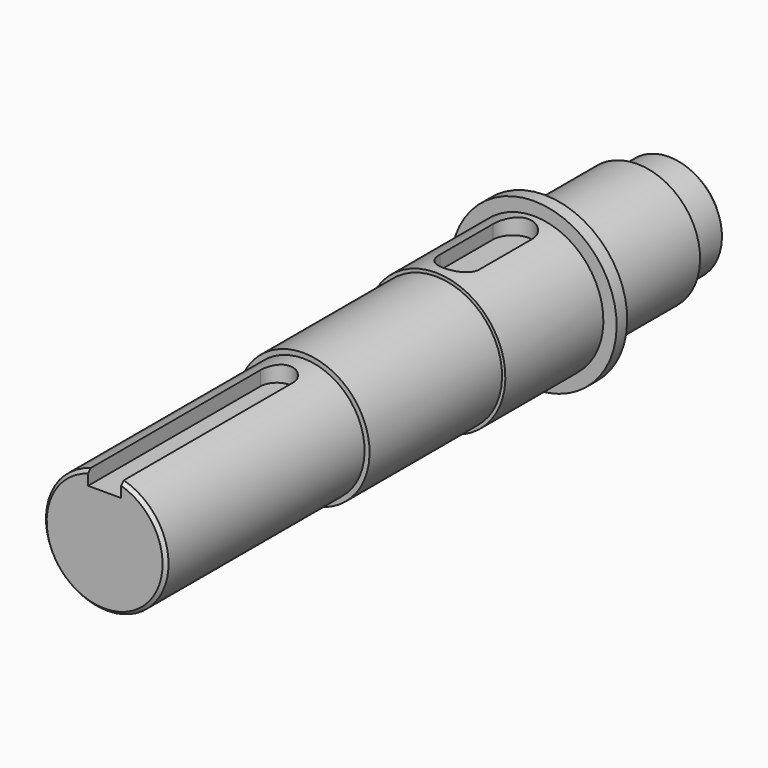
from build123d import *

# Parameters (mm, degrees)
F2_SIZE  = 1
F3_SIZE  = 2
F6_DEPTH = 11.501
F9_DEPTH = 9.001


with BuildPart() as f1:
    # F0 (on Right) → F1 (revolve)
    with BuildSketch(Plane.YZ):
        Polygon((0, 18.5), (0, 0), (215, 0), (215, 16), (201, 16), (201, 19), (166, 19), (166, 25), (162, 25), (162, 21), (125, 21), (125, 20), (75, 20), (75, 18.5), align=None)
    revolve(axis=Axis((0, 105.03928, 0), (0, 1, 0)))

    # F2
    f2_edges = [f1.edges().sort_by_distance(p)[0] for p in [
        (0, 0, -18.5),
    ]]
    chamfer(f2_edges, length=F2_SIZE)

    # F3
    f3_edges = [f1.edges().sort_by_distance(p)[0] for p in [
        (0, 215, -16),
    ]]
    chamfer(f3_edges, length=F3_SIZE)

    # F5 (on offset) → F6 (cut, through all)
    with BuildSketch(Plane.XY.offset(13.5)):
        with BuildLine():
            Line((5, -5), (5, 65))
            ThreePointArc((5, 65), (0, 70), (-5, 65))
            Line((-5, 65), (-5, -5))
            Line((-5, -5), (0, -5))
            Line((0, -5), (5, -5))
        make_face()
    extrude(amount=F6_DEPTH, mode=Mode.SUBTRACT)

    # F8 (on offset) → F9 (cut, through all)
    with BuildSketch(Plane.XY.offset(16)):
        with BuildLine():
            Line((6, 134), (6, 154))
            ThreePointArc((6, 154), (0, 160), (-6, 154))
            Line((-6, 154), (-6, 134))
            ThreePointArc((-6, 134), (0, 128), (6, 134))
        make_face()
    extrude(amount=F9_DEPTH, mode=Mode.SUBTRACT)


solid = f1.part
